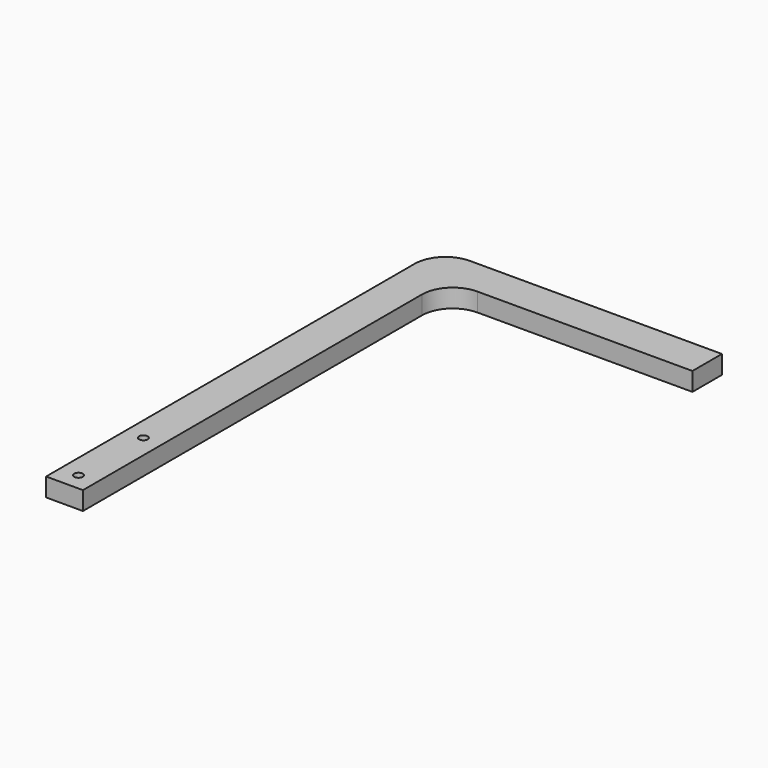
from build123d import *

# Parameters (mm, degrees)
F0_R     = 0.7
F1_DEPTH = 3


with BuildPart() as f1:
    # F0 (on Top) → F1 (new body)
    with BuildSketch(Plane.XY):
        with BuildLine():
            Line((0, 75), (0, 0))
            Line((0, 0), (6, 0))
            Line((6, 0), (6, 69))
            ThreePointArc((6, 69), (7.464466, 72.535534), (11, 74))
            Line((11, 74), (19.39934, 74))
            Line((19.39934, 74), (46, 74))
            Line((46, 74), (46, 80))
            Line((46, 80), (6, 80))
            Line((6, 80), (5, 80))
            ThreePointArc((5, 80), (1.464466, 78.535534), (0, 75))
        make_face()
        with Locations((3, 2.840546)):
            Circle(F0_R, mode=Mode.SUBTRACT)
        with Locations((3, 16.040546)):
            Circle(F0_R, mode=Mode.SUBTRACT)
    extrude(amount=F1_DEPTH)


solid = f1.part
